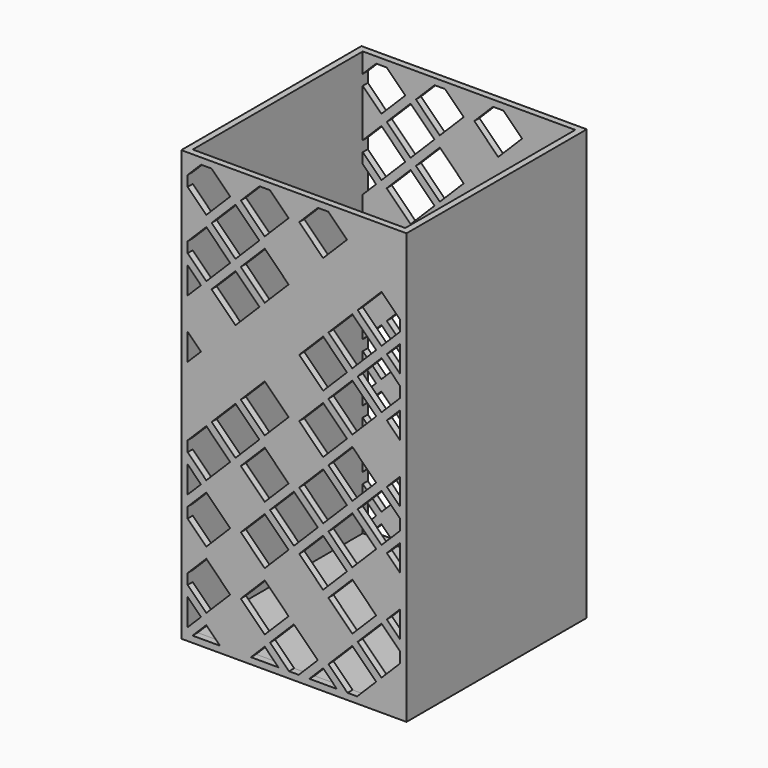
from build123d import *

# Parameters (mm, degrees)
F0_W     = 76.2
F0_H     = 76.2
F1_DEPTH = 1.984
F2_W     = 76.2
F2_H     = 76.2
F2_W_2   = 71.882
F2_H_2   = 71.882
F3_DEPTH = 143.51
F5_DEPTH = 76.201


with BuildPart() as f1:
    # F0 (on Top) → F1 (new body)
    with BuildSketch(Plane.XY):
        with Locations((38.1, 38.1)):
            Rectangle(F0_W, F0_H)
    extrude(amount=F1_DEPTH)

    # F2 (on face) → F3 (join)
    with BuildSketch(Plane.XY.offset(1.984)):
        with Locations((38.1, 38.1)):
            Rectangle(F2_W, F2_H)
        with Locations((38.1, 38.1)):
            Rectangle(F2_W_2, F2_H_2, mode=Mode.SUBTRACT)
    extrude(amount=F3_DEPTH)

    # F4 (on face) → F5 (cut, through all)
    with BuildSketch(Plane.XZ):
        Polygon((8.4651548005, 128.9466146906), (16.5473853094, 137.0288451995), (10.241230509, 143.335), (6.689079092, 143.335), (2.159, 138.804920908), (2.159, 135.252769491), align=None)
        Polygon((28.2217182668, 128.9466146906), (36.3039487758, 137.0288451995), (29.9977939753, 143.335), (26.4456425583, 143.335), (20.1394877579, 137.0288451995), align=None)
        Polygon((47.9782817332, 128.9466146906), (56.0605122421, 137.0288451995), (49.7543574417, 143.335), (46.2022060247, 143.335), (39.8960512242, 137.0288451995), align=None)
        Polygon((18.3434365336, 119.0683329574), (26.4256670426, 127.1505634664), (18.3434365336, 135.2327939753), (10.2612060247, 127.1505634664), align=None)
        Polygon((8.4651548005, 109.1900512242), (16.5473853094, 117.2722817332), (8.4651548005, 125.3545122421), (2.159, 119.0483574417), (2.159, 115.4962060247), align=None)
        Polygon((18.3434365336, 99.311769491), (26.4256670426, 107.394), (18.3434365336, 115.476230509), (10.2612060247, 107.394), align=None)
        Polygon((28.2217182668, 109.1900512242), (36.3039487758, 117.2722817332), (28.2217182668, 125.3545122421), (20.1394877579, 117.2722817332), align=None)
        Polygon((74.041, 119.0483574417), (67.7348451995, 125.3545122421), (59.6526146906, 117.2722817332), (67.7348451995, 109.1900512242), (74.041, 115.4962060247), align=None)
        Polygon((65.9387939753, 107.394), (57.8565634664, 115.476230509), (49.7743329574, 107.394), (57.8565634664, 99.311769491), align=None)
        Polygon((56.0605122421, 97.5157182668), (47.9782817332, 105.5979487758), (39.8960512242, 97.5157182668), (47.9782817332, 89.4334877579), align=None)
        Polygon((36.3039487758, 77.7591548005), (28.2217182668, 85.8413853094), (20.1394877579, 77.7591548005), (28.2217182668, 69.6769242915), align=None)
        Polygon((26.4256670426, 67.8808730673), (18.3434365336, 75.9631035763), (10.2612060247, 67.8808730673), (18.3434365336, 59.7986425583), align=None)
        Polygon((16.5473853094, 58.0025913341), (8.4651548005, 66.0848218431), (2.159, 59.7786670426), (2.159, 56.2265156256), (8.4651548005, 49.9203608252), align=None)
        Polygon((74.041, 99.2917939753), (67.7348451995, 105.5979487758), (59.6526146906, 97.5157182668), (67.7348451995, 89.4334877579), (74.041, 95.7396425583), align=None)
        Polygon((65.9387939753, 87.6374365336), (57.8565634664, 95.7196670426), (49.7743329574, 87.6374365336), (57.8565634664, 79.5552060247), align=None)
        Polygon((56.0605122421, 77.7591548005), (47.9782817332, 85.8413853094), (39.8960512242, 77.7591548005), (47.9782817332, 69.6769242915), align=None)
        Polygon((36.3039487758, 58.0025913341), (28.2217182668, 66.0848218431), (20.1394877579, 58.0025913341), (28.2217182668, 49.9203608252), align=None)
        Polygon((16.5473853094, 38.2460278678), (8.4651548005, 46.3282583767), (2.159, 40.0221035763), (2.159, 36.4699521593), (8.4651548005, 30.1637973588), align=None)
        Polygon((65.9387939753, 67.8808730673), (57.8565634664, 75.9631035763), (49.7743329574, 67.8808730673), (57.8565634664, 59.7986425583), align=None)
        Polygon((56.0605122421, 58.0025913341), (47.9782817332, 66.0848218431), (39.8960512242, 58.0025913341), (47.9782817332, 49.9203608252), align=None)
        Polygon((46.182230509, 48.1243096009), (38.1, 56.2065401099), (30.017769491, 48.1243096009), (38.1, 40.042079092), align=None)
        Polygon((36.3039487758, 38.2460278678), (28.2217182668, 46.3282583767), (20.1394877579, 38.2460278678), (28.2217182668, 30.1637973588), align=None)
        Polygon((16.5473853094, 18.4894644014), (8.4651548005, 26.5716949104), (2.159, 20.2655401099), (2.159, 16.7133886929), (8.4651548005, 10.4072338925), align=None)
        Polygon((74.041, 59.7786670426), (67.7348451995, 66.0848218431), (59.6526146906, 58.0025913341), (67.7348451995, 49.9203608252), (74.041, 56.2265156256), align=None)
        Polygon((65.9387939753, 48.1243096009), (57.8565634664, 56.2065401099), (49.7743329574, 48.1243096009), (57.8565634664, 40.042079092), align=None)
        Polygon((56.0605122421, 38.2460278678), (47.9782817332, 46.3282583767), (39.8960512242, 38.2460278678), (47.9782817332, 30.1637973588), align=None)
        Polygon((2.159, 102.8838964237), (6.6691035763, 107.394), (2.159, 111.9041035763), align=None)
        Polygon((74.041, 102.8838964237), (74.041, 111.9041035763), (69.5308964237, 107.394), align=None)
        Polygon((74.041, 83.1273329574), (74.041, 92.1475401099), (69.5308964237, 87.6374365336), align=None)
        Polygon((74.041, 63.370769491), (74.041, 72.3909766436), (69.5308964237, 67.8808730673), align=None)
        Polygon((6.6691035763, 48.1243096009), (2.159, 52.6344131772), (2.159, 43.6142060247), align=None)
        Polygon((36.3039487758, 18.4894644014), (28.2217182668, 26.5716949104), (20.1394877579, 18.4894644014), (28.2217182668, 10.4072338925), align=None)
        Polygon((74.041, 43.6142060247), (74.041, 52.6344131772), (69.5308964237, 48.1243096009), align=None)
        Polygon((74.041, 23.8576425583), (74.041, 32.8778497108), (69.5308964237, 28.3677461346), align=None)
        Polygon((65.9387939753, 28.3677461346), (57.8565634664, 36.4499766436), (49.7743329574, 28.3677461346), (57.8565634664, 20.2855156256), align=None)
        Polygon((13.1212862445, 2.159), (8.4651548005, 6.815131444), (3.8090233564, 2.159), align=None)
        Polygon((52.6344131772, 2.159), (47.9782817332, 6.815131444), (43.3221502892, 2.159), align=None)
        Polygon((65.9387939753, 8.6111826682), (57.8565634664, 16.6934131772), (49.7743329574, 8.6111826682), (56.2265156256, 2.159), (59.4866113071, 2.159), align=None)
        Polygon((32.8778497108, 2.159), (28.2217182668, 6.815131444), (23.5655868228, 2.159), align=None)
        Polygon((2.159, 83.1273329574), (6.6691035763, 87.6374365336), (2.159, 92.1475401099), align=None)
        Polygon((6.6691035763, 8.6111826682), (2.159, 13.1212862445), (2.159, 4.101079092), align=None)
        Polygon((46.182230509, 8.6111826682), (38.1, 16.6934131772), (30.017769491, 8.6111826682), (36.4699521593, 2.159), (39.7300478407, 2.159), align=None)
        Polygon((74.041, 20.2655401099), (67.7348451995, 26.5716949104), (59.6526146906, 18.4894644014), (67.7348451995, 10.4072338925), (74.041, 16.7133886929), align=None)
    extrude(amount=-F5_DEPTH, mode=Mode.SUBTRACT)


solid = f1.part
